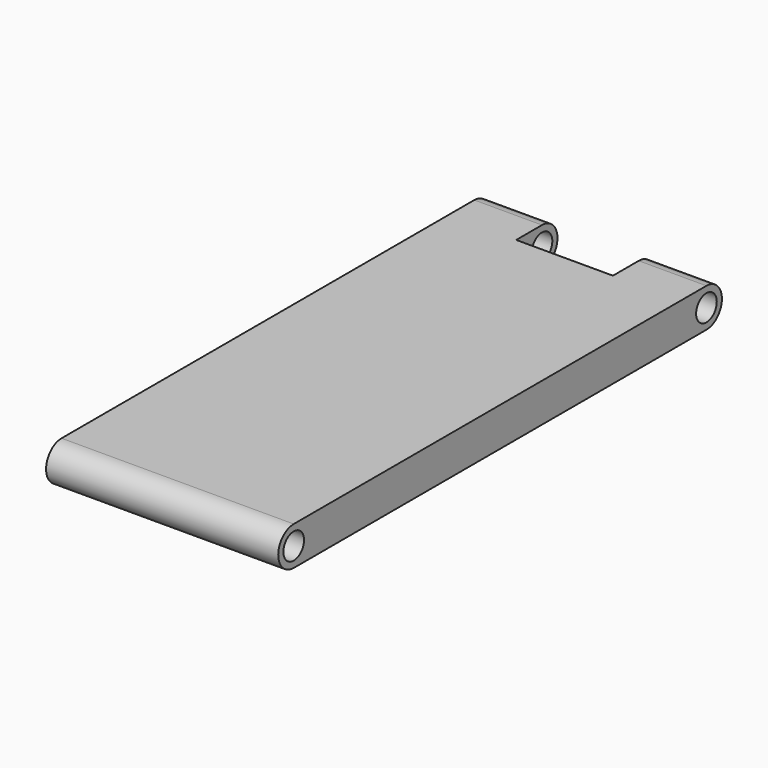
from build123d import *

# Parameters (mm, degrees)
F0_R     = 0.5
F1_DEPTH = 9
F2_W     = 3.75
F2_H     = 2
F3_DEPTH = 1.501


with BuildPart() as f1:
    # F0 (on Right) → F1 (new body)
    with BuildSketch(Plane.YZ):
        with BuildLine():
            ThreePointArc((0, 1.5), (-0.75, 0.75), (0, 0))
            Line((0, 0), (20, 0))
            ThreePointArc((20, 0), (20.75, 0.75), (20, 1.5))
            Line((20, 1.5), (0, 1.5))
        make_face()
        with Locations((0, 0.75)):
            Circle(F0_R, mode=Mode.SUBTRACT)
        with Locations((20, 0.75)):
            Circle(F0_R, mode=Mode.SUBTRACT)
    extrude(amount=F1_DEPTH)

    # F2 (on Top) → F3 (cut, through all)
    with BuildSketch(Plane.XY):
        with Locations((4.5, 19.75)):
            Rectangle(F2_W, F2_H)
    extrude(amount=F3_DEPTH, mode=Mode.SUBTRACT)


solid = f1.part
